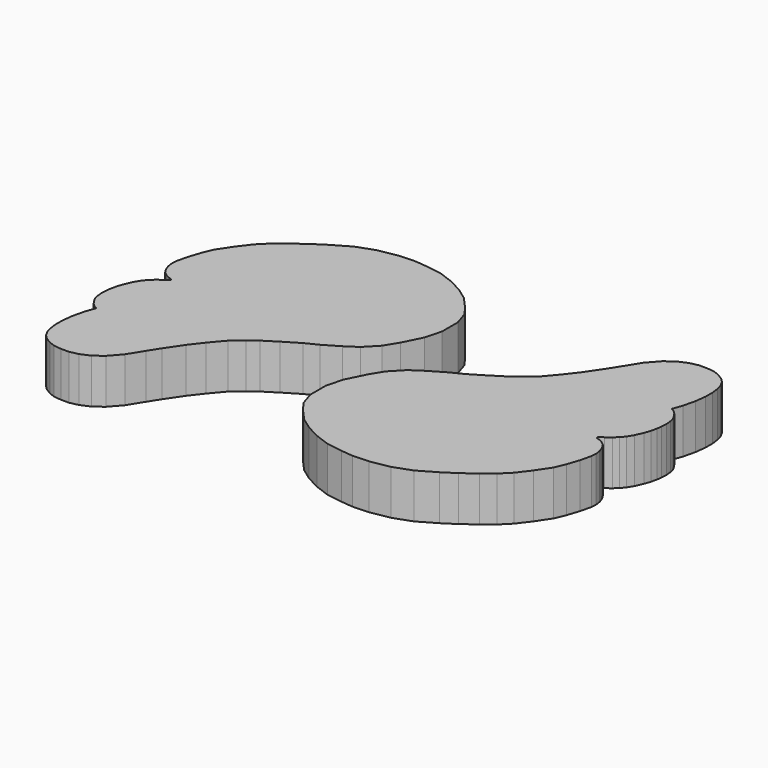
from build123d import *

# Parameters (mm, degrees)
PAD038_DEPTH            = 5
BODY038_PLACEMENT_ANGLE = 180
PAD037_DEPTH            = 5


with BuildPart() as body038:
    # Sketch040 → Pad038 (new body)
    with BuildSketch(Plane.XY):
        Polygon((-0.715895, 10.459235), (0.958153, 11.443971), (2.336782, 12.133285), (4.060069, 13.167257), (5.537171, 14.102756), (6.536532, 14.831632), (7.712062, 15.853839), (8.973101, 17.336113), (10.079276, 18.774139), (11.296068, 20.566143), (12.092514, 21.827183), (13.116936, 23.475929), (14.223111, 24.736969), (15.240791, 25.489166), (16.280596, 25.931637), (17.221134, 26.137039), (18.110924, 26.137039), (18.926565, 26.048061), (19.579077, 25.810783), (20.261248, 25.395548), (20.720972, 24.935823), (21.062059, 24.312971), (21.241928, 23.641508), (21.345737, 22.840698), (21.345737, 21.87676), (21.197439, 20.690374), (20.871256, 19.321636), (20.485682, 18.239059), (20.894186, 17.997505), (21.202349, 17.699284), (21.480688, 17.301653), (21.749088, 16.804617), (21.858437, 16.327463), (21.90814, 15.76084), (21.878248, 15.092189), (21.808664, 14.545448), (21.659552, 13.879419), (21.430916, 13.203449), (21.042017, 12.334372), (20.664268, 11.708105), (20.256699, 11.221009), (19.799425, 10.813439), (19.252686, 10.395929), (18.77553, 10.048003), (18.764149, 9.924158), (18.923201, 9.834691), (19.221422, 9.765106), (19.569347, 9.566292), (19.998131, 9.245623), (20.23671, 8.897697), (20.435524, 8.450364), (20.544872, 8.11238), (20.634338, 7.525877), (20.584635, 6.919492), (20.302982, 5.715654), (19.850153, 4.339052), (19.361095, 3.179808), (18.328644, 1.640186), (17.289362, 0.272043), (16.238798, -0.778522), (15.043327, -1.720408), (13.576158, -2.8072), (12.181441, -3.71286), (10.236815, -4.842392), (8.226252, -5.56692), (6.107007, -5.947297), (4.295688, -6.01975), (2.991537, -5.892957), (1.173591, -5.613963), (-0.443623, -5.019885), (-1.961825, -4.227778), (-3.248996, -3.303655), (-4.536168, -1.884467), (-5.262265, -0.86133), (-5.75733, 0.656871), (-5.75733, 2.868166), (-5.262265, 4.716413), (-4.237876, 6.772507), (-3.346758, 8.224701), (-2.043983, 9.573533), align=None)
    extrude(amount=PAD038_DEPTH)


with BuildPart() as body038_1:
    # Body038 placement: moved
    add(body038.part.moved(Location((-10, 20, -5))).rotate(Axis((-10, 20, -5), (0, 0, 1)), BODY038_PLACEMENT_ANGLE))


with BuildPart() as fusion005:
    # Sketch039 → Pad037 (new body)
    with BuildSketch(Plane.XY):
        Polygon((-0.715895, 10.459235), (0.958153, 11.443971), (2.336782, 12.133285), (4.060069, 13.167257), (5.537171, 14.102756), (6.536532, 14.831632), (7.712062, 15.853839), (8.973101, 17.336113), (10.079276, 18.774139), (11.296068, 20.566143), (12.092514, 21.827183), (13.116936, 23.475929), (14.223111, 24.736969), (15.240791, 25.489166), (16.280596, 25.931637), (17.221134, 26.137039), (18.110924, 26.137039), (18.926565, 26.048061), (19.579077, 25.810783), (20.261248, 25.395548), (20.720972, 24.935823), (21.062059, 24.312971), (21.241928, 23.641508), (21.345737, 22.840698), (21.345737, 21.87676), (21.197439, 20.690374), (20.871256, 19.321636), (20.485682, 18.239059), (20.894186, 17.997505), (21.202349, 17.699284), (21.480688, 17.301653), (21.749088, 16.804617), (21.858437, 16.327463), (21.90814, 15.76084), (21.878248, 15.092189), (21.808664, 14.545448), (21.659552, 13.879419), (21.430916, 13.203449), (21.042017, 12.334372), (20.664268, 11.708105), (20.256699, 11.221009), (19.799425, 10.813439), (19.252686, 10.395929), (18.77553, 10.048003), (18.764149, 9.924158), (18.923201, 9.834691), (19.221422, 9.765106), (19.569347, 9.566292), (19.998131, 9.245623), (20.23671, 8.897697), (20.435524, 8.450364), (20.544872, 8.11238), (20.634338, 7.525877), (20.584635, 6.919492), (20.302982, 5.715654), (19.850153, 4.339052), (19.361095, 3.179808), (18.328644, 1.640186), (17.289362, 0.272043), (16.238798, -0.778522), (15.043327, -1.720408), (13.576158, -2.8072), (12.181441, -3.71286), (10.236815, -4.842392), (8.226252, -5.56692), (6.107007, -5.947297), (4.295688, -6.01975), (2.991537, -5.892957), (1.173591, -5.613963), (-0.443623, -5.019885), (-1.961825, -4.227778), (-3.248996, -3.303655), (-4.536168, -1.884467), (-5.262265, -0.86133), (-5.75733, 0.656871), (-5.75733, 2.868166), (-5.262265, 4.716413), (-4.237876, 6.772507), (-3.346758, 8.224701), (-2.043983, 9.573533), align=None)
    extrude(amount=PAD037_DEPTH)


with BuildPart() as fusion005_1:
    # Body037 placement: moved
    add(fusion005.part.moved(Location((0, 0, -5))))

    # Fusion005: union Body038
    add(body038_1.part)


with BuildPart() as fusion005_2:
    # Fusion005 placement: moved
    add(fusion005_1.part.moved(Location((-50, -80, 0))))


solid = fusion005_2.part
